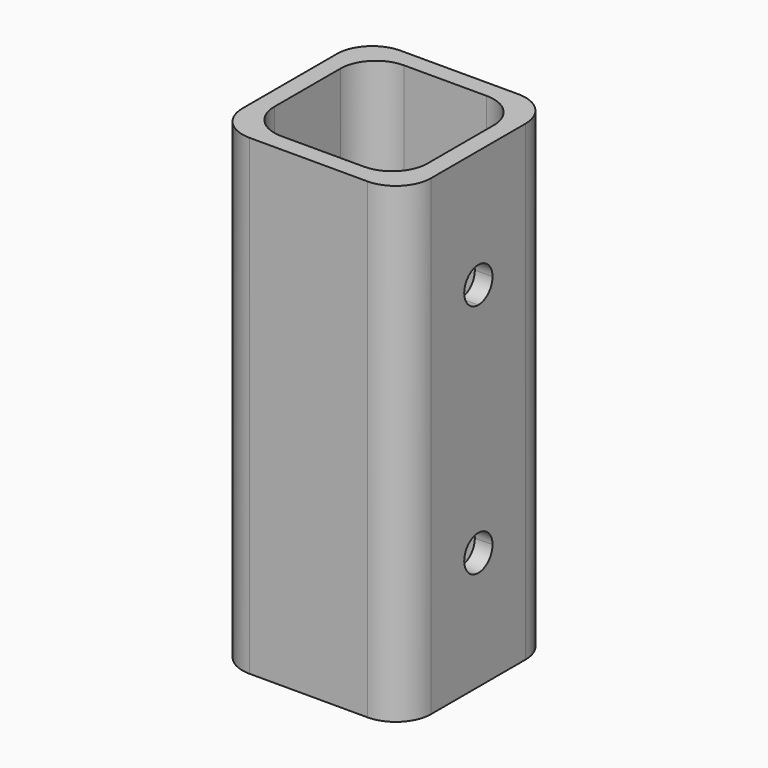
from build123d import *

# Parameters (mm, degrees)
F1_DEPTH = 20
F3_DEPTH = 25


with BuildPart() as f1:
    # F0 (on Top) → F1 (new body)
    with BuildSketch(Plane.XY):
        with BuildLine():
            ThreePointArc((-8, -5), (-7.12132, -7.12132), (-5, -8))
            Line((-5, -8), (5, -8))
            ThreePointArc((5, -8), (7.12132, -7.12132), (8, -5))
            Line((8, -5), (8, 5))
            ThreePointArc((8, 5), (7.12132, 7.12132), (5, 8))
            Line((5, 8), (-5, 8))
            ThreePointArc((-5, 8), (-7.12132, 7.12132), (-8, 5))
            Line((-8, 5), (-8, -5))
        make_face()
        with BuildLine():
            Line((3.5, -6.5), (-3.5, -6.5))
            ThreePointArc((-3.5, -6.5), (-5.62132, -5.62132), (-6.5, -3.5))
            Line((-6.5, -3.5), (-6.5, 3.5))
            ThreePointArc((-6.5, 3.5), (-5.62132, 5.62132), (-3.5, 6.5))
            Line((-3.5, 6.5), (3.5, 6.5))
            ThreePointArc((3.5, 6.5), (5.62132, 5.62132), (6.5, 3.5))
            Line((6.5, 3.5), (6.5, -3.5))
            ThreePointArc((6.5, -3.5), (5.62132, -5.62132), (3.5, -6.5))
        make_face(mode=Mode.SUBTRACT)
    extrude(amount=F1_DEPTH)

    # F2 (on face) → F3 (cut)
    with BuildSketch(Plane.YZ.offset(8)):
        with BuildLine():
            ThreePointArc((1.5, 10), (-1.06066, 11.06066), (0, 8.5))
            ThreePointArc((0, 8.5), (1.06066, 8.93934), (1.5, 10))
        make_face()
    extrude(amount=-F3_DEPTH, mode=Mode.SUBTRACT)

    # F4: F1 across plane


with BuildPart() as f1_1:
    add(f1.part)
    add(f1.part.mirror(Plane.XY))


solid = f1_1.part
